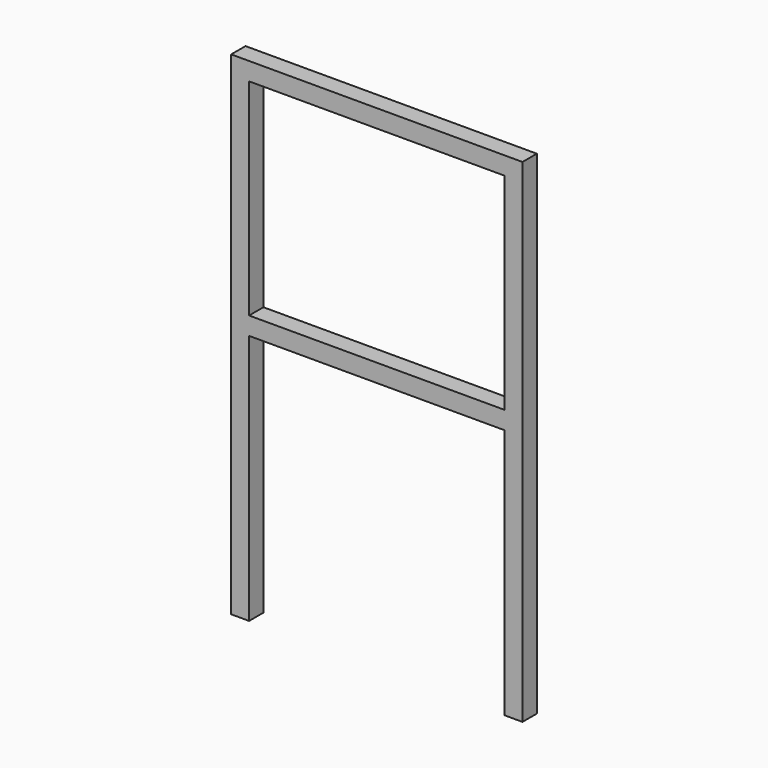
from build123d import *

# Parameters (mm, degrees)
F0_W     = 570
F0_H     = 40
F1_DEPTH = 40


with BuildPart() as f1:
    # F0 (on Front) → F1 (new body)
    with BuildSketch(Plane.XZ):
        Polygon((-956.363594, 0), (-956.363594, -1100), (-916.363594, -1100), (-916.363594, -540), (-916.363594, -500), (-916.363594, -40), (-346.363594, -40), (-346.363594, -500), (-346.363594, -540), (-346.363594, -1100), (-306.363594, -1100), (-306.363594, 0), align=None)
        with Locations((-631.363594, -520)):
            Rectangle(F0_W, F0_H)
    extrude(amount=F1_DEPTH)


solid = f1.part
